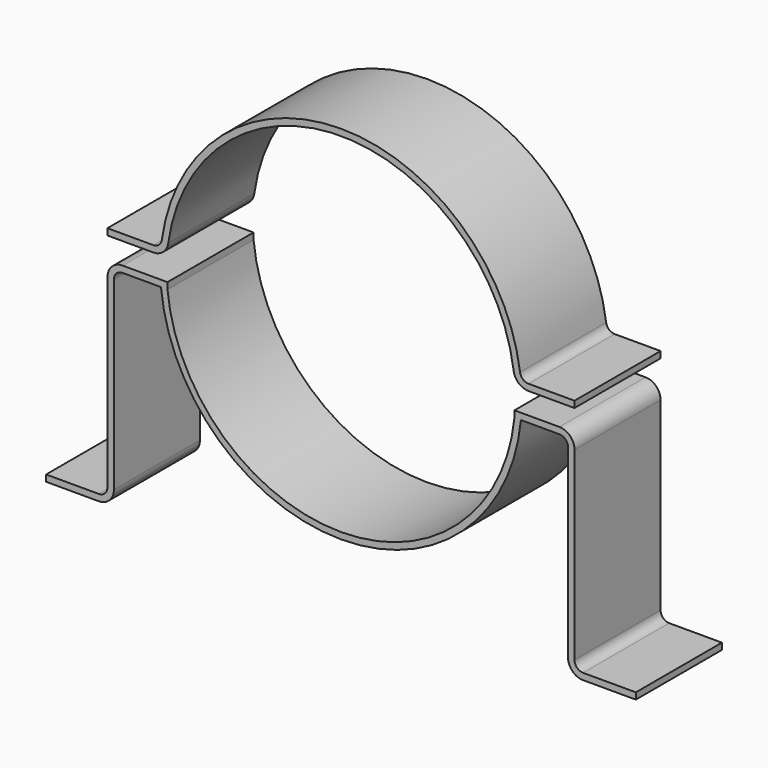
from build123d import *

# Parameters (mm, degrees)
F1_DEPTH = 100


with BuildPart() as f1:
    # F0 (on Front) → F1 (new body)
    with BuildSketch(Plane.XZ):
        with BuildLine():
            ThreePointArc((-160.486734, 22.090909), (0, 162), (160.486734, 22.090909))
            ThreePointArc((160.486734, 22.090909), (165.156155, 13.447103), (174.355958, 10))
            Line((174.355958, 10), (217, 10))
            Line((217, 10), (217, 16))
            Line((217, 16), (174.355958, 16))
            ThreePointArc((174.355958, 16), (169.098928, 17.969773), (166.430687, 22.909091))
            ThreePointArc((166.430687, 22.909091), (0, 168), (-166.430687, 22.909091))
            ThreePointArc((-166.430687, 22.909091), (-169.098928, 17.969773), (-174.355958, 16))
            Line((-174.355958, 16), (-217, 16))
            Line((-217, 16), (-217, 10))
            Line((-217, 10), (-174.355958, 10))
            ThreePointArc((-174.355958, 10), (-165.156155, 13.447103), (-160.486734, 22.090909))
        make_face()
        with BuildLine():
            Line((-161.20794, -10), (-203, -10))
            ThreePointArc((-203, -10), (-212.899495, -14.100505), (-217, -24))
            Line((-217, -24), (-217, -196))
            ThreePointArc((-217, -196), (-219.343146, -201.656854), (-225, -204))
            Line((-225, -204), (-274, -204))
            Line((-274, -204), (-274, -210))
            Line((-274, -210), (-225, -210))
            ThreePointArc((-225, -210), (-215.100505, -205.899495), (-211, -196))
            Line((-211, -196), (-211, -24))
            ThreePointArc((-211, -24), (-208.656854, -18.343146), (-203, -16))
            Line((-203, -16), (-167.23636, -16))
            Line((-167.23636, -16), (-161.20794, -16))
            Line((-161.20794, -16), (-161.20794, -10))
        make_face()
        with BuildLine():
            ThreePointArc((161.20794, -16), (0, -162), (-161.20794, -16))
            Line((-161.20794, -16), (-167.23636, -16))
            ThreePointArc((-167.23636, -16), (0, -168), (167.23636, -16))
            Line((167.23636, -16), (161.20794, -16))
        make_face()
        with BuildLine():
            Line((161.20794, -10), (161.20794, -16))
            Line((161.20794, -16), (167.23636, -16))
            Line((167.23636, -16), (203, -16))
            ThreePointArc((203, -16), (208.656854, -18.343146), (211, -24))
            Line((211, -24), (211, -196))
            ThreePointArc((211, -196), (215.100505, -205.899495), (225, -210))
            Line((225, -210), (274, -210))
            Line((274, -210), (274, -204))
            Line((274, -204), (225, -204))
            ThreePointArc((225, -204), (219.343146, -201.656854), (217, -196))
            Line((217, -196), (217, -24))
            ThreePointArc((217, -24), (212.899495, -14.100505), (203, -10))
            Line((203, -10), (161.20794, -10))
        make_face()
    extrude(amount=F1_DEPTH)


solid = f1.part
